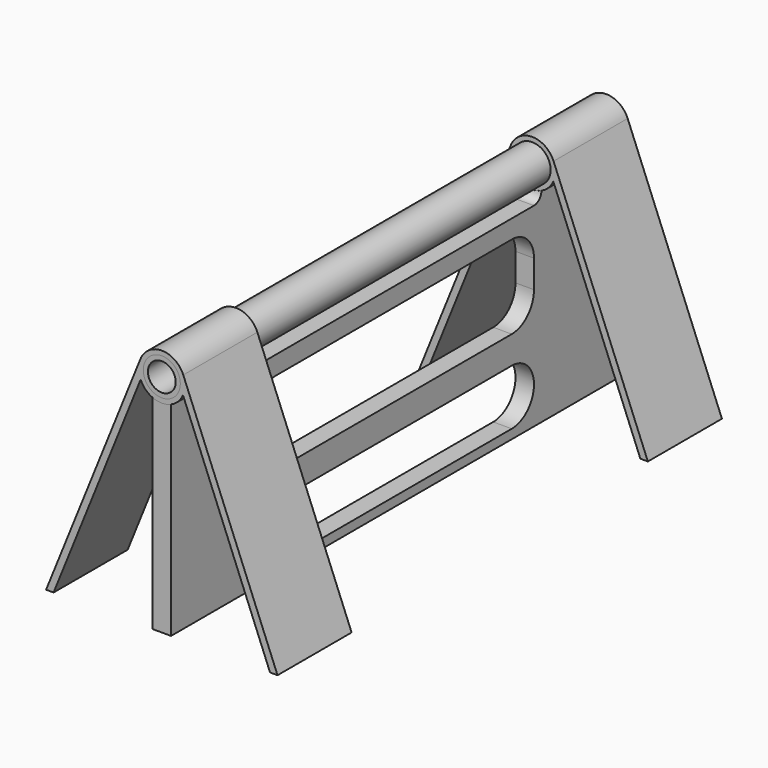
from build123d import *

# Parameters (mm, degrees)
F0_W     = 120
F0_H     = 48
F2_DEPTH = 2
F1_R     = 4
F1_R_2   = 3
F3_DEPTH = 120
F4_START = 100
F4_DEPTH = 20
F5_DEPTH = 20
F6_DEPTH = 120


with BuildPart() as f2:
    # F0 (on Right) → F2 (new body, symmetric)
    with BuildSketch(Plane.YZ):
        with Locations((-60, 24)):
            Rectangle(F0_W, F0_H)
        with BuildLine():
            ThreePointArc((-92, 2), (-98, 8), (-92, 14))
            Line((-92, 14), (-28, 14))
            ThreePointArc((-28, 14), (-22, 8), (-28, 2))
            Line((-28, 2), (-92, 2))
        make_face(mode=Mode.SUBTRACT)
        with BuildLine():
            ThreePointArc((-92, 20), (-96.2741732358, 21.7891279822), (-97.9993321593, 26.0895189498))
            Line((-97.9993321593, 26.0895189498), (-97.9252290308, 31.0557220047))
            ThreePointArc((-97.9252290308, 31.0557220047), (-97.9993321593, 32.0895189498), (-97.8944173164, 33.1206446807))
            ThreePointArc((-97.8944173164, 33.1206446807), (-95.8259725506, 36.621897234), (-92, 38))
            Line((-92, 38), (-28, 38))
            ThreePointArc((-28, 38), (-23.7573593129, 36.2426406871), (-22, 32))
            Line((-22, 32), (-22, 26))
            ThreePointArc((-22, 26), (-23.7573593129, 21.7573593129), (-28, 20))
            Line((-28, 20), (-92, 20))
        make_face(mode=Mode.SUBTRACT)
        with BuildLine():
            ThreePointArc((-98, 42), (-100, 44), (-98, 46))
            Line((-98, 46), (-22, 46))
            ThreePointArc((-22, 46), (-20, 44), (-22, 42))
            Line((-22, 42), (-98, 42))
        make_face(mode=Mode.SUBTRACT)
    extrude(amount=F2_DEPTH, both=True)

    # F1 (on Front) → F3 (cut)
    with BuildSketch(Plane.XZ):
        with BuildLine():
            ThreePointArc((4.5815332864, 46.6162963505), (4.8942653398, 47.5958601642), (5, 48.6186831126))
            ThreePointArc((5, 48.6186831126), (4.9084273131, 49.5712277634), (4.6370634753, 50.4888815849))
            ThreePointArc((4.6370634753, 50.4888815849), (-0.1113152462, 53.6174438506), (-4.7157188179, 50.2806085112))
            ThreePointArc((-4.7157188179, 50.2806085112), (-4.9965307646, 48.4324565894), (-4.5789234689, 46.6103355665))
            ThreePointArc((-4.5789234689, 46.6103355665), (-3.5323110201, 45.0799292561), (-2, 44.0361074177))
            ThreePointArc((-2, 44.0361074177), (0, 43.6186831126), (2, 44.0361074177))
            ThreePointArc((2, 44.0361074177), (3.5346129678, 45.0822285084), (4.5815332864, 46.6162963505))
        make_face()
        with Locations((0, 48.6186831126)):
            Circle(F1_R, mode=Mode.SUBTRACT)
        with Locations((0, 48.6186831126)):
            Circle(F1_R)
        with Locations((0, 48.6186831126)):
            Circle(F1_R_2, mode=Mode.SUBTRACT)
        with Locations((0, 48.6186831126)):
            Circle(F1_R_2)
    extrude(amount=F3_DEPTH, mode=Mode.SUBTRACT)


with BuildPart() as f4:
    # F1 (on Front) → F4 (new body)
    with BuildSketch(Plane.XZ.offset(F4_START)):
        with BuildLine():
            ThreePointArc((-4.5789234689, 46.6103355665), (-4.9965307646, 48.4324565894), (-4.7157188179, 50.2806085112))
            Line((-4.7157188179, 50.2806085112), (-25, 0))
            Line((-25, 0), (-23.3825374389, 0))
            Line((-23.3825374389, 0), (-4.5789234689, 46.6103355665))
        make_face()
        with BuildLine():
            ThreePointArc((4.6370634753, 50.4888815849), (4.9084273131, 49.5712277634), (5, 48.6186831126))
            ThreePointArc((5, 48.6186831126), (4.8942653398, 47.5958601642), (4.5815332864, 46.6162963505))
            Line((4.5815332864, 46.6162963505), (23.3825970811, 0))
            Line((23.3825970811, 0), (25, 0))
            Line((25, 0), (4.6370634753, 50.4888815849))
        make_face()
        with BuildLine():
            ThreePointArc((4.5815332864, 46.6162963505), (4.8942653398, 47.5958601642), (5, 48.6186831126))
            ThreePointArc((5, 48.6186831126), (4.9084273131, 49.5712277634), (4.6370634753, 50.4888815849))
            ThreePointArc((4.6370634753, 50.4888815849), (-0.1113152462, 53.6174438506), (-4.7157188179, 50.2806085112))
            ThreePointArc((-4.7157188179, 50.2806085112), (-4.9965307646, 48.4324565894), (-4.5789234689, 46.6103355665))
            ThreePointArc((-4.5789234689, 46.6103355665), (-3.5323110201, 45.0799292561), (-2, 44.0361074177))
            ThreePointArc((-2, 44.0361074177), (0, 43.6186831126), (2, 44.0361074177))
            ThreePointArc((2, 44.0361074177), (3.5346129678, 45.0822285084), (4.5815332864, 46.6162963505))
        make_face()
        with Locations((0, 48.6186831126)):
            Circle(F1_R, mode=Mode.SUBTRACT)
    extrude(amount=F4_DEPTH)


with BuildPart() as f5:
    # F1 (on Front) → F5 (new body)
    with BuildSketch(Plane.XZ):
        with BuildLine():
            ThreePointArc((-4.5789234689, 46.6103355665), (-4.9965307646, 48.4324565894), (-4.7157188179, 50.2806085112))
            Line((-4.7157188179, 50.2806085112), (-25, 0))
            Line((-25, 0), (-23.3825374389, 0))
            Line((-23.3825374389, 0), (-4.5789234689, 46.6103355665))
        make_face()
        with BuildLine():
            ThreePointArc((4.6370634753, 50.4888815849), (4.9084273131, 49.5712277634), (5, 48.6186831126))
            ThreePointArc((5, 48.6186831126), (4.8942653398, 47.5958601642), (4.5815332864, 46.6162963505))
            Line((4.5815332864, 46.6162963505), (23.3825970811, 0))
            Line((23.3825970811, 0), (25, 0))
            Line((25, 0), (4.6370634753, 50.4888815849))
        make_face()
        with BuildLine():
            ThreePointArc((4.5815332864, 46.6162963505), (4.8942653398, 47.5958601642), (5, 48.6186831126))
            ThreePointArc((5, 48.6186831126), (4.9084273131, 49.5712277634), (4.6370634753, 50.4888815849))
            ThreePointArc((4.6370634753, 50.4888815849), (-0.1113152462, 53.6174438506), (-4.7157188179, 50.2806085112))
            ThreePointArc((-4.7157188179, 50.2806085112), (-4.9965307646, 48.4324565894), (-4.5789234689, 46.6103355665))
            ThreePointArc((-4.5789234689, 46.6103355665), (-3.5323110201, 45.0799292561), (-2, 44.0361074177))
            ThreePointArc((-2, 44.0361074177), (0, 43.6186831126), (2, 44.0361074177))
            ThreePointArc((2, 44.0361074177), (3.5346129678, 45.0822285084), (4.5815332864, 46.6162963505))
        make_face()
        with Locations((0, 48.6186831126)):
            Circle(F1_R, mode=Mode.SUBTRACT)
    extrude(amount=F5_DEPTH)


with BuildPart() as f6:
    # F1 (on Front) → F6 (new body)
    with BuildSketch(Plane.XZ):
        with Locations((0, 48.6186831126)):
            Circle(F1_R)
        with Locations((0, 48.6186831126)):
            Circle(F1_R_2, mode=Mode.SUBTRACT)
    extrude(amount=F6_DEPTH)


solid = Compound([f2.part, f4.part, f5.part, f6.part])
